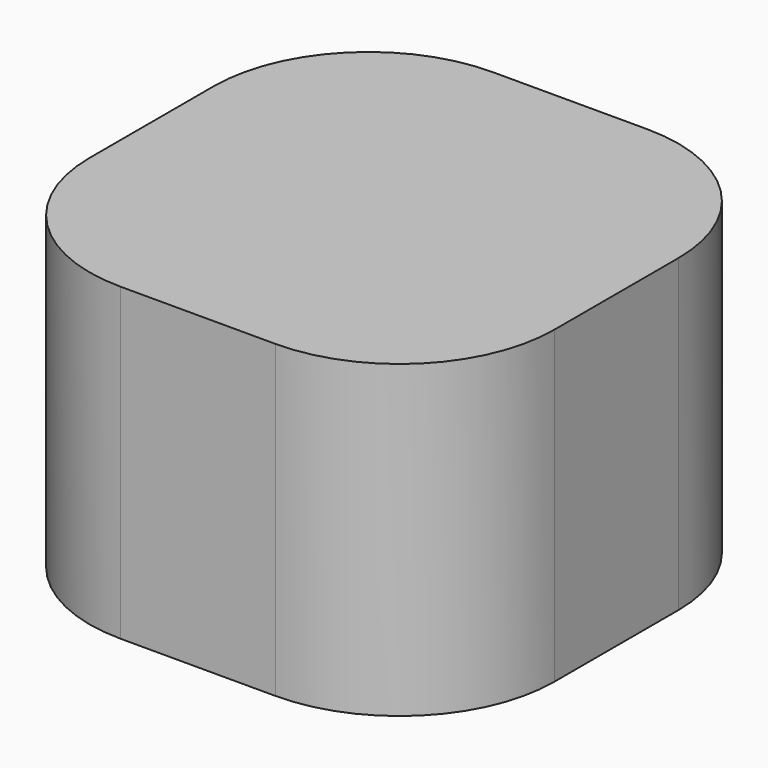
from build123d import *

# Parameters (mm, degrees)
F1_DEPTH = 76.2
F2_DEPTH = 25.4
F5_DEPTH = 50.8
F6_DEPTH = 25.4


with BuildPart() as f1:
    # F0 (on Top) → F1 (new body)
    with BuildSketch(Plane.XY):
        with BuildLine():
            ThreePointArc((31.75, 6.35), (28.0302561211, 15.3302561211), (19.05, 19.05))
            Line((19.05, 19.05), (-19.05, 19.05))
            ThreePointArc((-19.05, 19.05), (-28.0302561211, 15.3302561211), (-31.75, 6.35))
            Line((-31.75, 6.35), (-31.75, -6.35))
            ThreePointArc((-31.75, -6.35), (-28.0302561211, -15.3302561211), (-19.05, -19.05))
            Line((-19.05, -19.05), (19.05, -19.05))
            ThreePointArc((19.05, -19.05), (28.0302561211, -15.3302561211), (31.75, -6.35))
            Line((31.75, -6.35), (31.75, 6.35))
        make_face()
    extrude(amount=F1_DEPTH)

    # F2 (cut): a face of the model
    f2_faces = [f1.faces().sort_by_distance(p)[0] for p in [
        (0, 0, 76.2),
    ]]
    extrude(f2_faces, amount=-F2_DEPTH, mode=Mode.SUBTRACT)


with BuildPart() as f5:
    # F4 (on Top) → F5 (new body)
    with BuildSketch(Plane.XY):
        with BuildLine():
            Line((6.35, 19.05), (-6.35, 19.05))
            ThreePointArc((-6.35, 19.05), (-15.3302561211, 15.3302561211), (-19.05, 6.35))
            Line((-19.05, 6.35), (-19.05, -6.35))
            ThreePointArc((-19.05, -6.35), (-15.3302561211, -15.3302561211), (-6.35, -19.05))
            Line((-6.35, -19.05), (6.35, -19.05))
            ThreePointArc((6.35, -19.05), (15.3302561211, -15.3302561211), (19.05, -6.35))
            Line((19.05, -6.35), (19.05, 6.35))
            ThreePointArc((19.05, 6.35), (15.3302561211, 15.3302561211), (6.35, 19.05))
        make_face()
    extrude(amount=F5_DEPTH)

    # F6 (cut): a face of the model
    f6_faces = [f5.faces().sort_by_distance(p)[0] for p in [
        (0, 0, 50.8),
    ]]
    extrude(f6_faces, amount=-F6_DEPTH, mode=Mode.SUBTRACT)


solid = f5.part
